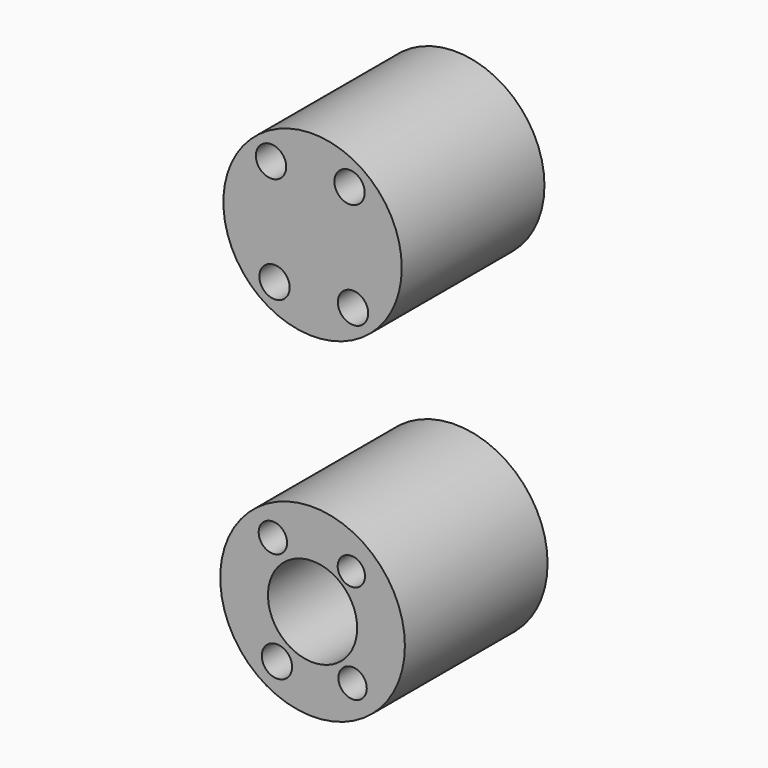
from build123d import *

# Parameters (mm, degrees)
F0_R     = 6.35
F0_R_2   = 4.0005
F1_DEPTH = 7.62
F0_R_3   = 13.147852
F0_R_4   = 2.159
F0_R_5   = 2.019739
F0_R_6   = 1.943232
F2_DEPTH = 25.4
F0_R_7   = 12.7
F3_DEPTH = 25.4
F4_DEPTH = 25.4


with BuildPart() as f1:
    # F0 (on Front) → F1 (new body)
    with BuildSketch(Plane.XZ):
        Circle(F0_R)
        Circle(F0_R_2, mode=Mode.SUBTRACT)
    extrude(amount=F1_DEPTH)

    # F0 (on Front) → F2 (join)
    with BuildSketch(Plane.XZ):
        Circle(F0_R_3)
        with Locations((-5.075337, -7.885403)):
            Circle(F0_R_4, mode=Mode.SUBTRACT)
        with Locations((-5.652183, 7.45177)):
            Circle(F0_R_5, mode=Mode.SUBTRACT)
        with Locations((5.700697, -7.111833)):
            Circle(F0_R_5, mode=Mode.SUBTRACT)
        Circle(F0_R, mode=Mode.SUBTRACT)
        with Locations((5.523817, 6.858167)):
            Circle(F0_R_6, mode=Mode.SUBTRACT)
    extrude(amount=F2_DEPTH)

    # F0 (on Front) → F3 (join)
    with BuildSketch(Plane.XZ):
        Circle(F0_R_3)
        with Locations((-5.075337, -7.885403)):
            Circle(F0_R_4, mode=Mode.SUBTRACT)
        with Locations((-5.652183, 7.45177)):
            Circle(F0_R_5, mode=Mode.SUBTRACT)
        with Locations((5.700697, -7.111833)):
            Circle(F0_R_5, mode=Mode.SUBTRACT)
        Circle(F0_R, mode=Mode.SUBTRACT)
        with Locations((5.523817, 6.858167)):
            Circle(F0_R_6, mode=Mode.SUBTRACT)
        with Locations((0, 47.228459)):
            Circle(F0_R_7)
        with Locations((-5.416306, 39.562173)):
            Circle(F0_R_4, mode=Mode.SUBTRACT)
        with Locations((-5.913603, 54.532107)):
            Circle(F0_R_4, mode=Mode.SUBTRACT)
        with Locations((5.759694, 39.966151)):
            Circle(F0_R_4, mode=Mode.SUBTRACT)
        with Locations((0, 47.228459)):
            Circle(F0_R, mode=Mode.SUBTRACT)
        with Locations((5.262397, 54.933734)):
            Circle(F0_R_4, mode=Mode.SUBTRACT)
    extrude(amount=F3_DEPTH)


with BuildPart() as f4:
    # F0 (on Front) → F4 (new body)
    with BuildSketch(Plane.XZ):
        Circle(F0_R_3)
        with Locations((-5.075337, -7.885403)):
            Circle(F0_R_4, mode=Mode.SUBTRACT)
        with Locations((-5.652183, 7.45177)):
            Circle(F0_R_5, mode=Mode.SUBTRACT)
        with Locations((5.700697, -7.111833)):
            Circle(F0_R_5, mode=Mode.SUBTRACT)
        Circle(F0_R, mode=Mode.SUBTRACT)
        with Locations((5.523817, 6.858167)):
            Circle(F0_R_6, mode=Mode.SUBTRACT)
        with Locations((0, 47.228459)):
            Circle(F0_R_7)
        with Locations((-5.416306, 39.562173)):
            Circle(F0_R_4, mode=Mode.SUBTRACT)
        with Locations((-5.913603, 54.532107)):
            Circle(F0_R_4, mode=Mode.SUBTRACT)
        with Locations((5.759694, 39.966151)):
            Circle(F0_R_4, mode=Mode.SUBTRACT)
        with Locations((0, 47.228459)):
            Circle(F0_R, mode=Mode.SUBTRACT)
        with Locations((5.262397, 54.933734)):
            Circle(F0_R_4, mode=Mode.SUBTRACT)
        with Locations((0, 47.228459)):
            Circle(F0_R)
        with Locations((0, 47.228459)):
            Circle(F0_R_2, mode=Mode.SUBTRACT)
        with Locations((0, 47.228459)):
            Circle(F0_R_2)
    extrude(amount=F4_DEPTH)


solid = Compound([f1.part, f4.part])
